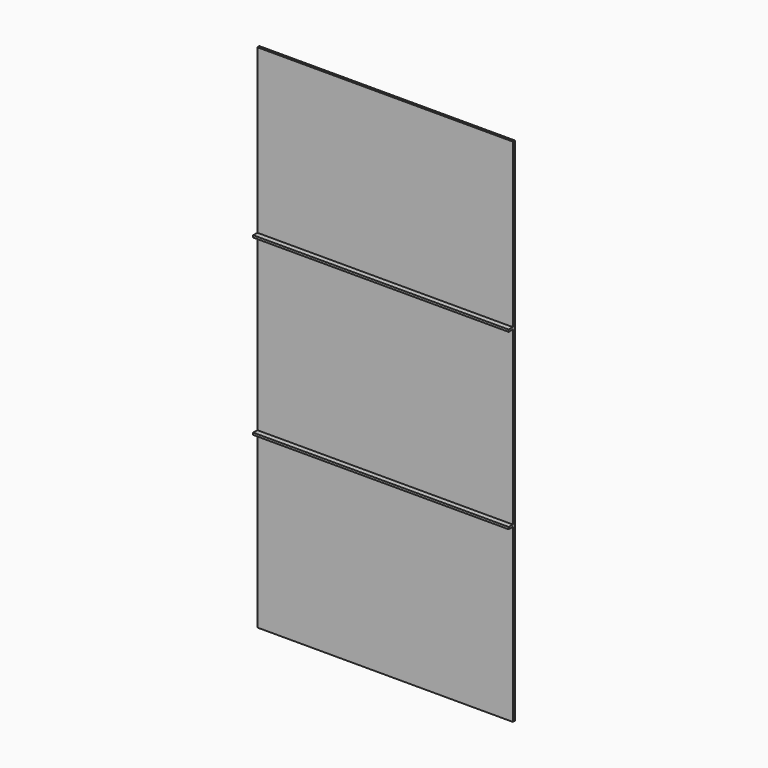
from build123d import *

# Parameters (mm, degrees)
F0_W     = 1220
F0_H     = 2440
F1_DEPTH = 12
F2_W     = 1220
F2_H     = 10
F3_DEPTH = 25


with BuildPart() as f1:
    # F0 (on Front) → F1 (new body)
    with BuildSketch(Plane.XZ):
        with Locations((-610, 1220)):
            Rectangle(F0_W, F0_H)
    extrude(amount=F1_DEPTH)

    # F2 (on face) → F3 (join)
    with BuildSketch(Plane.XZ.offset(12)):
        with Locations((-610, 825)):
            Rectangle(F2_W, F2_H)
        with Locations((-610, 1655)):
            Rectangle(F2_W, F2_H)
    extrude(amount=F3_DEPTH)


solid = f1.part
